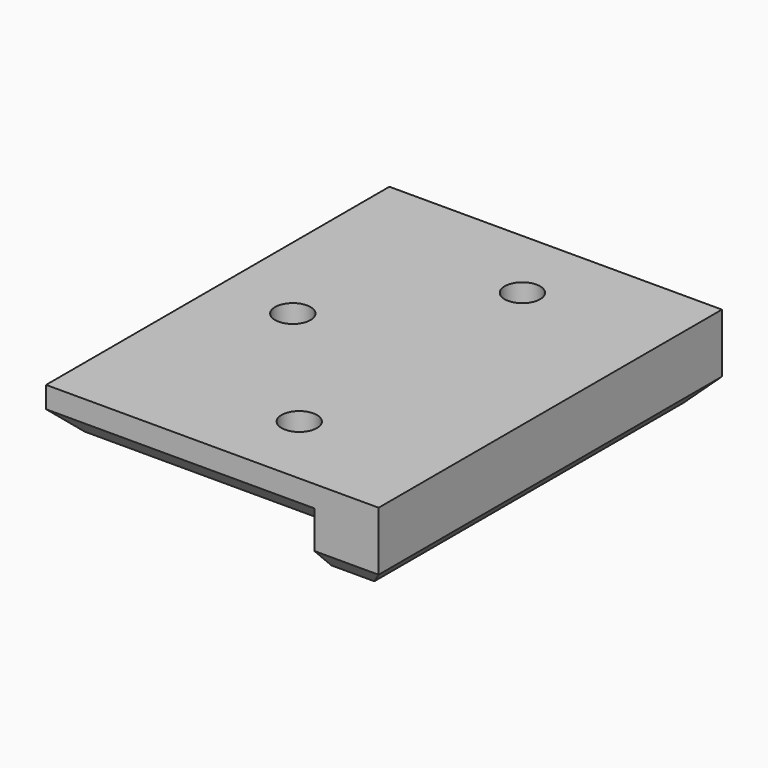
from build123d import *

# Parameters (mm, degrees)
F1_DEPTH       = 20
F3_D           = 3.3
F3_CSINK_D     = 6.72
F3_CSINK_ANGLE = 90
F4_SIZE        = 2


with BuildPart() as f1:
    # F0 (on Front) → F1 (new body, symmetric)
    with BuildSketch(Plane.XZ):
        Polygon((-31, 4), (-31, 0), (-6, 0), (-6, -3.5), (0, -3.5), (0, 4), align=None)
    extrude(amount=F1_DEPTH, both=True)

    # F3 (through all)
    with Locations(Plane(origin=(0, 0, 0), x_dir=(1, 0, 0), z_dir=(0, 0, -1))):
        with Locations((-13, -13), (-24, 0), (-13, 13)):
            CounterSinkHole(F3_D / 2, F3_CSINK_D / 2, counter_sink_angle=F3_CSINK_ANGLE)

    # F4
    f4_edges = [f1.edges().sort_by_distance(p)[0] for p in [
        (-18.5, -20, 0),
        (-31, 0, 0),
        (-18.5, 20, 0),
        (-3, -20, -3.5),
        (-3, 20, -3.5),
        (0, 0, -3.5),
    ]]
    chamfer(f4_edges, length=F4_SIZE)


solid = f1.part
